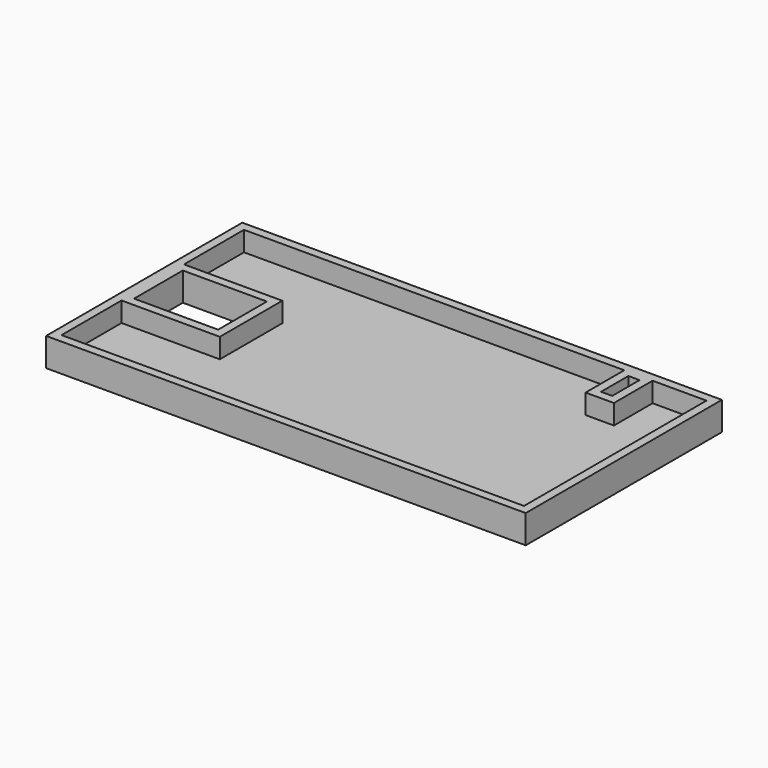
from build123d import *

# Parameters (mm, degrees)
F0_W     = 141.9352
F0_H     = 72.5678
F0_W_2   = 24.8666
F0_H_2   = 18.034
F0_W_3   = 3.302
F0_H_3   = 10.1092
F1_DEPTH = 8.4074
F2_T     = -2.54


with BuildPart() as f1:
    # F0 (on Top) → F1 (new body)
    with BuildSketch(Plane.XY):
        Rectangle(F0_W, F0_H)
        with Locations((-54.3091148138, 0)):
            Rectangle(F0_W_2, F0_H_2, mode=Mode.SUBTRACT)
        with Locations((48.2847352991, 27.0454883575)):
            Rectangle(F0_W_3, F0_H_3, mode=Mode.SUBTRACT)
    extrude(amount=F1_DEPTH)

    # F2
    f2_openings = [f1.faces().sort_by_distance(p)[0] for p in [
        (2.316419, -0.091952, 8.4074),
    ]]
    offset(amount=F2_T, openings=f2_openings, kind=Kind.INTERSECTION)


solid = f1.part
